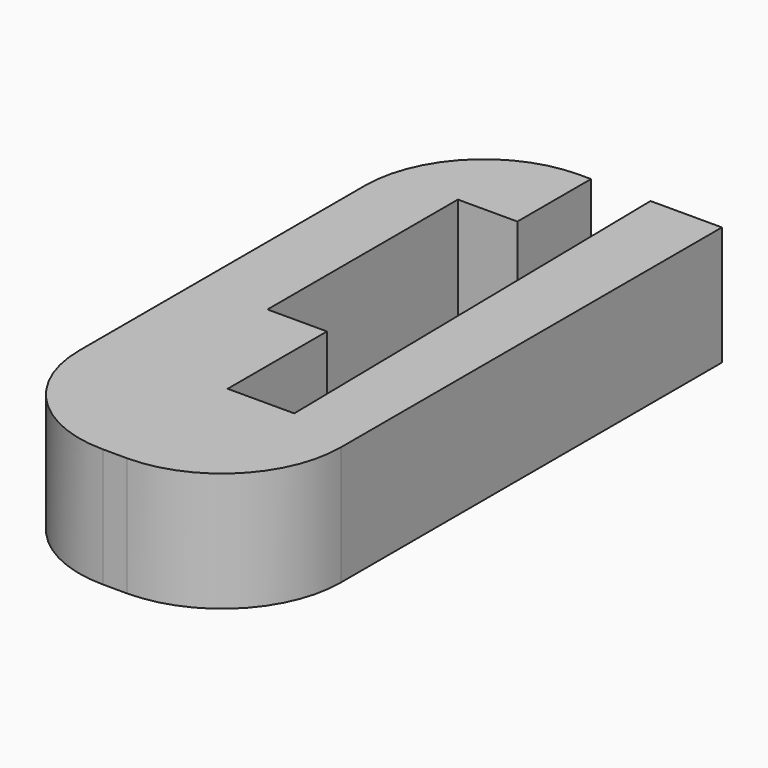
from build123d import *

# Parameters (mm, degrees)
F1_DEPTH = 5
F2_R     = 5


with BuildPart() as f1:
    # F0 (on Top) → F1 (new body)
    with BuildSketch(Plane.XY):
        Polygon((0, 25), (0, 0), (11, 0), (11, 25), (8, 25), (8.3, 5.91587), (5.5, 5.91587), (5.5, 11.132775), (3, 11.132775), (3, 21.132775), (5.5, 21.132775), (5.5, 25), align=None)
    extrude(amount=F1_DEPTH)

    # F2
    f2_edges = [f1.edges().sort_by_distance(p)[0] for p in [
        (0, 25, 2.5),
        (0, 0, 2.5),
        (11, 0, 2.5),
    ]]
    fillet(f2_edges, radius=F2_R)


solid = f1.part
